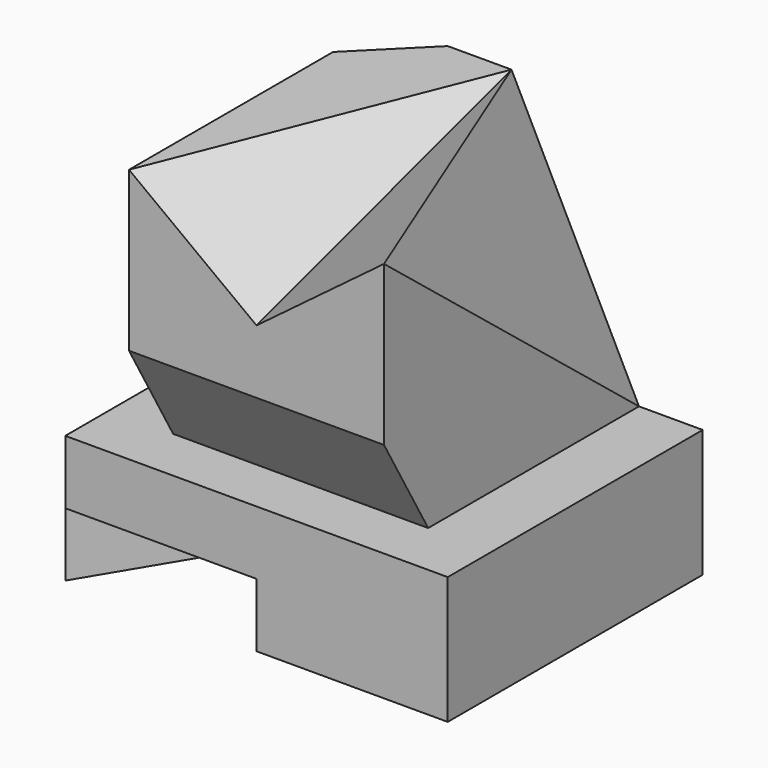
from build123d import *

# Parameters (mm, degrees)
F0_W      = 60
F0_H      = 50
F1_DEPTH  = 60
F2_W      = 10
F2_H      = 50
F3_DEPTH  = 40
F5_DEPTH  = 40
F6_W      = 10
F6_H      = 50
F7_DEPTH  = 40
F14_DEPTH = 10
F16_DEPTH = 50.001
F20_DEPTH = 25


with BuildPart() as f1:
    # F0 (on Top) → F1 (new body)
    with BuildSketch(Plane.XY):
        with Locations((30, 25)):
            Rectangle(F0_W, F0_H)
    extrude(amount=F1_DEPTH)

    # F2 (on face) → F3 (cut)
    with BuildSketch(Plane.XY.offset(60)):
        with Locations((5, 25)):
            Rectangle(F2_W, F2_H)
    extrude(amount=-F3_DEPTH, mode=Mode.SUBTRACT)

    # F4 (on face) → F5 (cut)
    with BuildSketch(Plane.XY.offset(60)):
        Polygon((20, 50), (10, 50), (10, 40), align=None)
    extrude(amount=-F5_DEPTH, mode=Mode.SUBTRACT)

    # F6 (on face) → F7 (cut)
    with BuildSketch(Plane.XY.offset(60)):
        with Locations((55, 25)):
            Rectangle(F6_W, F6_H)
    extrude(amount=-F7_DEPTH, mode=Mode.SUBTRACT)

    # F12: sweep along a path in F11
    with BuildLine(Plane.YZ.offset(30)) as f12_path:
        Line((0, 45), (50, 60))
    # F9 (on face) → F12 (sweep, cut)
    with BuildSketch(Plane.XZ):
        Polygon((50, 60), (10, 60), (30, 45), align=None)
    sweep(path=f12_path.line, mode=Mode.SUBTRACT)

    # F13 (on face) → F14 (cut)
    with BuildSketch(Plane(origin=(0, 0, 0), x_dir=(1, 0, 0), z_dir=(0, 0, -1))):
        Polygon((30, 0), (0, 0), (30, -50), (60, -50), align=None)
    extrude(amount=-F14_DEPTH, mode=Mode.SUBTRACT)

    # F15 (on face) → F16 (cut, through all)
    with BuildSketch(Plane.YZ.offset(50)):
        Polygon((0, 35), (0, 20), (8.6602540378, 20), align=None)
    extrude(amount=-F16_DEPTH, mode=Mode.SUBTRACT)

    # F19 (on 3pt) → F20 (cut)
    with BuildSketch(Plane(origin=(56.7375886525, 22.695035461, 28.3687943262), x_dir=(-0.3012974309, 0.9415544714, -0.1506487154), z_dir=(0.8421519211, 0.3368607684, 0.4210759605))):
        Polygon((28.9998777205, 40.249223595), (-24.103794469, 31.304951685), (28.9998777205, -4.472135955), align=None)
    extrude(amount=F20_DEPTH, mode=Mode.SUBTRACT)


solid = f1.part
